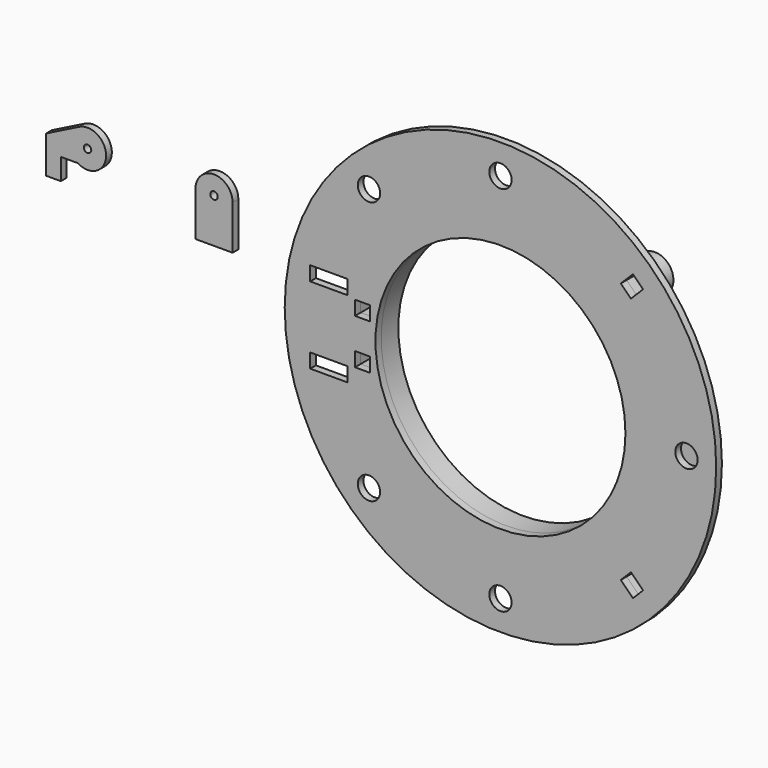
from build123d import *

# Parameters (mm, degrees)
F0_R     = 3.175
F1_DEPTH = 6.096
F0_R_2   = 184.15
F0_R_3   = 9.525
F0_W     = 31.75
F0_H     = 12.192
F0_W_2   = 12.7
F0_R_4   = 106.68
F2_DEPTH = 18.288
F3_DEPTH = 6.096


with BuildPart() as f1:
    # F0 (on Front) → F1 (new body)
    with BuildSketch(Plane.XZ):
        with BuildLine():
            Line((-375.2378275289, 51.054), (-360.8386900941, 51.054))
            ThreePointArc((-360.8386900941, 51.054), (-336.5672961231, 63.7751540287), (-359.5469367357, 78.7037990588))
            Line((-359.5469367357, 78.7037990588), (-387.8108275289, 64.516))
            Line((-387.8108275289, 64.516), (-387.8108275289, 51.054))
            Line((-387.8108275289, 51.054), (-387.8108275289, 32.766))
            Line((-387.8108275289, 32.766), (-375.2378275289, 32.766))
            Line((-375.2378275289, 32.766), (-375.2378275289, 51.054))
        make_face()
        with Locations((-352.425, 64.516)):
            Circle(F0_R, mode=Mode.SUBTRACT)
        with BuildLine():
            Line((-375.2378275289, 51.054), (-360.8386900941, 51.054))
            ThreePointArc((-360.8386900941, 51.054), (-336.5672961231, 63.7751540287), (-359.5469367357, 78.7037990588))
            Line((-359.5469367357, 78.7037990588), (-387.8108275289, 64.516))
            Line((-387.8108275289, 64.516), (-387.8108275289, 51.054))
            Line((-387.8108275289, 51.054), (-387.8108275289, 32.766))
            Line((-387.8108275289, 32.766), (-375.2378275289, 32.766))
            Line((-375.2378275289, 32.766), (-375.2378275289, 51.054))
        make_face()
        with Locations((-352.425, 64.516)):
            Circle(F0_R, mode=Mode.SUBTRACT)
    extrude(amount=F1_DEPTH)


with BuildPart() as f1b:
    # F0 (on Front) → F1, piece 2 (new body)
    with BuildSketch(Plane.XZ):
        with BuildLine():
            Line((-260.35, 26.67), (-228.6, 26.67))
            Line((-228.6, 26.67), (-228.6, 64.516))
            ThreePointArc((-228.6, 64.516), (-244.475, 80.391), (-260.35, 64.516))
            Line((-260.35, 64.516), (-260.35, 26.67))
        make_face()
        with Locations((-244.475, 64.516)):
            Circle(F0_R, mode=Mode.SUBTRACT)
    extrude(amount=F1_DEPTH)


with BuildPart() as f1c:
    # F0 (on Front) → F1, piece 3 (new body)
    with BuildSketch(Plane.XZ):
        Circle(F0_R_2)
        with Locations((-112.2532015134, -112.2532015134)):
            Circle(F0_R_3, mode=Mode.SUBTRACT)
        with Locations((-146.5307828801, -32.766)):
            Rectangle(F0_W, F0_H, mode=Mode.SUBTRACT)
        with Locations((0, -158.75)):
            Circle(F0_R_3, mode=Mode.SUBTRACT)
        with BuildLine():
            ThreePointArc((-130.6557828801, 26.67), (-52.4268957675, 122.6117575936), (70.9830781801, 112.8876658988))
            Line((70.9830781801, 112.8876658988), (106.373407311, 126.9991719846))
            ThreePointArc((106.373407311, 126.9991719846), (123.4785216647, 123.4785216647), (126.9991719846, 106.373407311))
            Line((126.9991719846, 106.373407311), (112.8876658988, 70.9830781801))
            ThreePointArc((112.8876658988, 70.9830781801), (133.35, 0), (112.8876658988, -70.9830781801))
            Line((112.8876658988, -70.9830781801), (126.9991719846, -106.373407311))
            ThreePointArc((126.9991719846, -106.373407311), (123.4785216647, -123.4785216647), (106.373407311, -126.9991719846))
            Line((106.373407311, -126.9991719846), (70.9830781801, -112.8876658988))
            ThreePointArc((70.9830781801, -112.8876658988), (-52.4268957675, -122.6117575936), (-130.6557828801, -26.67))
            ThreePointArc((-130.6557828801, -26.67), (-133.35, 0), (-130.6557828801, 26.67))
        make_face(mode=Mode.SUBTRACT)
        Polygon((158.75, 17.5976362049), (173.99, 8.7988181024), (173.99, -8.7988181024), (158.75, -17.5976362049), (143.51, -8.7988181024), (143.51, 8.7988181024), align=None, mode=Mode.SUBTRACT)
        with Locations((-146.5307828801, 32.766)):
            Rectangle(F0_W, F0_H, mode=Mode.SUBTRACT)
        with Locations((-112.2532015134, 112.2532015134)):
            Circle(F0_R_3, mode=Mode.SUBTRACT)
        with Locations((0, 158.75)):
            Circle(F0_R_3, mode=Mode.SUBTRACT)
        with BuildLine():
            ThreePointArc((112.8876658988, 70.9830781801), (94.2926892712, 94.2926892712), (70.9830781801, 112.8876658988))
            ThreePointArc((70.9830781801, 112.8876658988), (-52.4268957675, 122.6117575936), (-130.6557828801, 26.67))
            ThreePointArc((-130.6557828801, 26.67), (-133.35, 0), (-130.6557828801, -26.67))
            ThreePointArc((-130.6557828801, -26.67), (-52.4268957675, -122.6117575936), (70.9830781801, -112.8876658988))
            ThreePointArc((70.9830781801, -112.8876658988), (94.2926892712, -94.2926892712), (112.8876658988, -70.9830781801))
            ThreePointArc((112.8876658988, -70.9830781801), (133.35, 0), (112.8876658988, 70.9830781801))
        make_face()
        with Locations((-117.7920477199, -19.304)):
            Rectangle(F0_W_2, F0_H, mode=Mode.SUBTRACT)
        Circle(F0_R_4, mode=Mode.SUBTRACT)
        with Locations((-117.7920477199, 19.304)):
            Rectangle(F0_W_2, F0_H, mode=Mode.SUBTRACT)
        with BuildLine():
            Line((106.373407311, 126.9991719846), (70.9830781801, 112.8876658988))
            ThreePointArc((70.9830781801, 112.8876658988), (94.2926892712, 94.2926892712), (112.8876658988, 70.9830781801))
            Line((112.8876658988, 70.9830781801), (126.9991719846, 106.373407311))
            ThreePointArc((126.9991719846, 106.373407311), (123.4785216647, 123.4785216647), (106.373407311, 126.9991719846))
        make_face()
        Polygon((111.388571845, 102.7675259688), (102.7675259688, 111.388571845), (113.1178311817, 121.7388770579), (121.7388770579, 113.1178311817), align=None, mode=Mode.SUBTRACT)
        with BuildLine():
            Line((126.9991719846, -106.373407311), (112.8876658988, -70.9830781801))
            ThreePointArc((112.8876658988, -70.9830781801), (94.2926892712, -94.2926892712), (70.9830781801, -112.8876658988))
            Line((70.9830781801, -112.8876658988), (106.373407311, -126.9991719846))
            ThreePointArc((106.373407311, -126.9991719846), (123.4785216647, -123.4785216647), (126.9991719846, -106.373407311))
        make_face()
        Polygon((121.7388770579, -113.1178311817), (113.1178311817, -121.7388770579), (102.7675259688, -111.388571845), (111.388571845, -102.7675259688), align=None, mode=Mode.SUBTRACT)
        Polygon((173.99, -8.7988181024), (173.99, 8.7988181024), (158.75, 17.5976362049), (143.51, 8.7988181024), (143.51, -8.7988181024), (158.75, -17.5976362049), align=None)
        with Locations((158.75, 0)):
            Circle(F0_R_3, mode=Mode.SUBTRACT)
    extrude(amount=F1_DEPTH)


with BuildPart() as f2:
    # F0 (on Front) → F2 (new body)
    with BuildSketch(Plane.XZ):
        with BuildLine():
            ThreePointArc((112.8876658988, 70.9830781801), (94.2926892712, 94.2926892712), (70.9830781801, 112.8876658988))
            ThreePointArc((70.9830781801, 112.8876658988), (-52.4268957675, 122.6117575936), (-130.6557828801, 26.67))
            ThreePointArc((-130.6557828801, 26.67), (-133.35, 0), (-130.6557828801, -26.67))
            ThreePointArc((-130.6557828801, -26.67), (-52.4268957675, -122.6117575936), (70.9830781801, -112.8876658988))
            ThreePointArc((70.9830781801, -112.8876658988), (94.2926892712, -94.2926892712), (112.8876658988, -70.9830781801))
            ThreePointArc((112.8876658988, -70.9830781801), (133.35, 0), (112.8876658988, 70.9830781801))
        make_face()
        with Locations((-117.7920477199, -19.304)):
            Rectangle(F0_W_2, F0_H, mode=Mode.SUBTRACT)
        Circle(F0_R_4, mode=Mode.SUBTRACT)
        with Locations((-117.7920477199, 19.304)):
            Rectangle(F0_W_2, F0_H, mode=Mode.SUBTRACT)
        with BuildLine():
            Line((106.373407311, 126.9991719846), (70.9830781801, 112.8876658988))
            ThreePointArc((70.9830781801, 112.8876658988), (94.2926892712, 94.2926892712), (112.8876658988, 70.9830781801))
            Line((112.8876658988, 70.9830781801), (126.9991719846, 106.373407311))
            ThreePointArc((126.9991719846, 106.373407311), (123.4785216647, 123.4785216647), (106.373407311, 126.9991719846))
        make_face()
        Polygon((111.388571845, 102.7675259688), (102.7675259688, 111.388571845), (113.1178311817, 121.7388770579), (121.7388770579, 113.1178311817), align=None, mode=Mode.SUBTRACT)
        with BuildLine():
            Line((126.9991719846, -106.373407311), (112.8876658988, -70.9830781801))
            ThreePointArc((112.8876658988, -70.9830781801), (94.2926892712, -94.2926892712), (70.9830781801, -112.8876658988))
            Line((70.9830781801, -112.8876658988), (106.373407311, -126.9991719846))
            ThreePointArc((106.373407311, -126.9991719846), (123.4785216647, -123.4785216647), (126.9991719846, -106.373407311))
        make_face()
        Polygon((121.7388770579, -113.1178311817), (113.1178311817, -121.7388770579), (102.7675259688, -111.388571845), (111.388571845, -102.7675259688), align=None, mode=Mode.SUBTRACT)
    extrude(amount=-F2_DEPTH)


with BuildPart() as f3:
    # F0 (on Front) → F3 (new body)
    with BuildSketch(Plane.XZ):
        Polygon((173.99, -8.7988181024), (173.99, 8.7988181024), (158.75, 17.5976362049), (143.51, 8.7988181024), (143.51, -8.7988181024), (158.75, -17.5976362049), align=None)
        with Locations((158.75, 0)):
            Circle(F0_R_3, mode=Mode.SUBTRACT)
        with Locations((158.75, 0)):
            Circle(F0_R_3)
    extrude(amount=-F3_DEPTH)


solid = Compound([f1.part, f1b.part, f1c.part, f2.part, f3.part])
